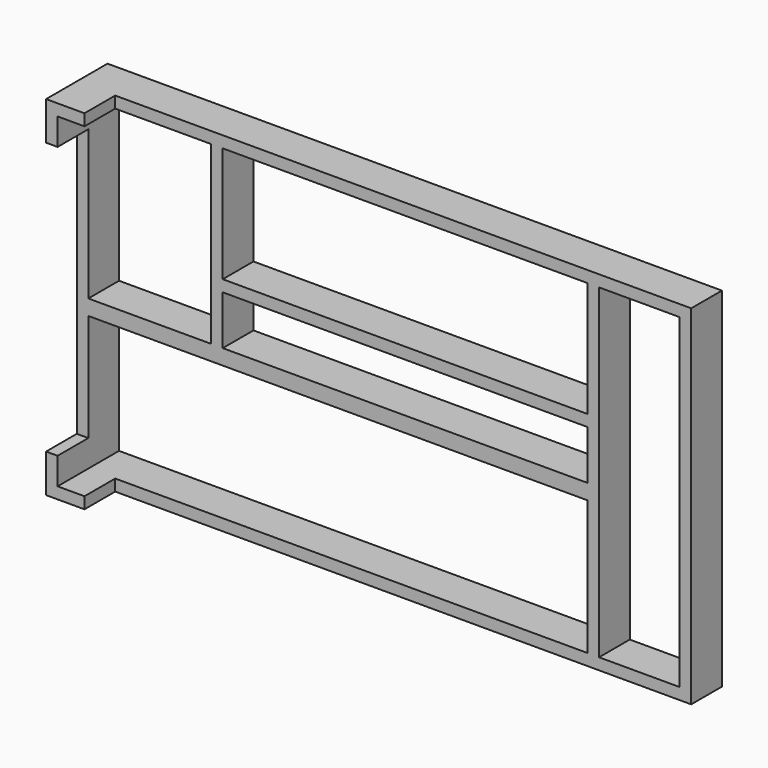
from build123d import *

# Parameters (mm, degrees)
F0_W     = 203.2
F0_H     = 115.319544
F0_W_2   = 165.11304
F0_H_2   = 44.45
F0_W_3   = 26.661704
F0_H_3   = 107.700744
F0_W_4   = 40.65304
F0_H_4   = 58.169544
F1_DEPTH = 12.7
F2_W     = 3.805256
F2_H     = 8.89
F2_W_2   = 8.894744
F2_H_2   = 3.81
F3_DEPTH = 12.7


with BuildPart() as f1:
    # F0 (on Front) → F1 (new body)
    with BuildSketch(Plane.XZ):
        with Locations((16.7529, 5.843772)):
            Rectangle(F0_W, F0_H)
        with Locations((1.514676, -25.781)):
            Rectangle(F0_W_2, F0_H_2, mode=Mode.SUBTRACT)
        with Locations((101.212048, 5.839628)):
            Rectangle(F0_W_3, F0_H_3, mode=Mode.SUBTRACT)
        with Locations((-60.715324, 30.608772)):
            Rectangle(F0_W_4, F0_H_4, mode=Mode.SUBTRACT)
        Polygon((84.071196, 17.78), (84.071196, 1.524), (-36.578804, 1.524), (-36.578804, 17.783544), align=None, mode=Mode.SUBTRACT)
        Polygon((84.071196, 59.69), (84.071196, 21.59), (-36.578804, 21.593544), (-36.578804, 59.693544), align=None, mode=Mode.SUBTRACT)
    extrude(amount=F1_DEPTH)

    # F2 (on face) → F3 (join)
    with BuildSketch(Plane.XZ.offset(12.7)):
        with Locations((-82.944472, 55.248544)):
            Rectangle(F2_W, F2_H)
        Polygon((-72.1471, 63.503544), (-84.8471, 63.503544), (-84.8471, 59.693544), (-81.041844, 59.693544), (-72.1471, 59.693544), align=None)
        Polygon((-81.041844, -39.116), (-84.8471, -39.116), (-84.8471, -51.816), (-81.041844, -51.816), (-81.041844, -48.006), align=None)
        with Locations((-76.594472, -49.911)):
            Rectangle(F2_W_2, F2_H_2)
    extrude(amount=F3_DEPTH)


solid = f1.part
